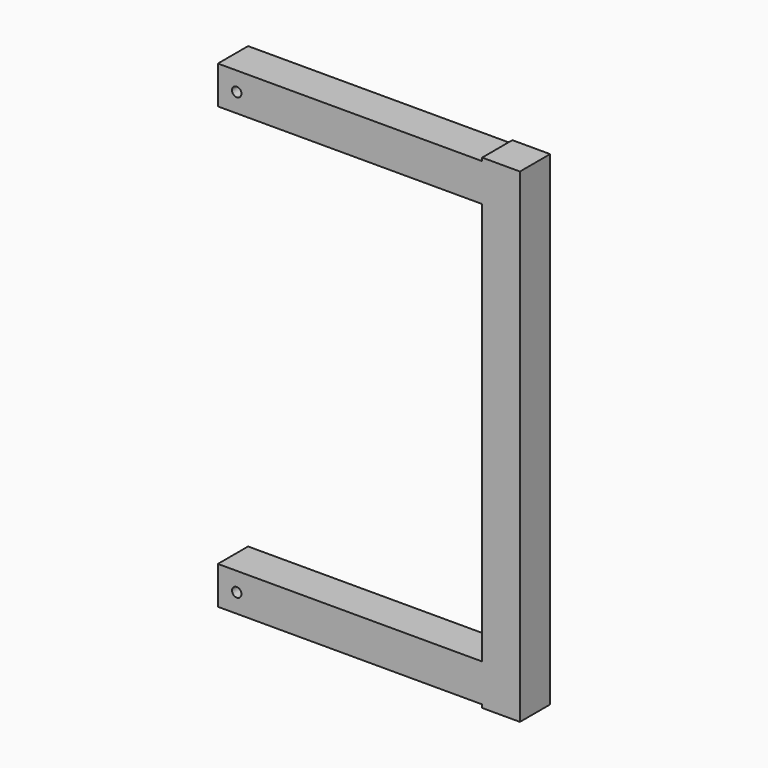
from build123d import *

# Parameters (mm, degrees)
F0_W      = 457.2
F0_H      = 76.2
F1_DEPTH  = 76.2
F2_DEPTH  = 152.4
F3_W      = 76.2
F3_H      = 76.2
F4_DEPTH  = 895.35
F5_W      = 76.2
F5_H      = 76.2
F12_DEPTH = 6.35
F6_W      = 76.2
F6_H      = 76.2
F7_DEPTH  = 533.4
F9_DEPTH  = 76.2
F11_DEPTH = 76.2


with BuildPart() as f1:
    # F0 (on Top) → F1 (new body)
    with BuildSketch(Plane.XY):
        with Locations((4.4659457539, 3.0175000429)):
            Rectangle(F0_W, F0_H)
    extrude(amount=F1_DEPTH)

    # F2 (add): a face of the model
    f2_faces = [f1.faces().sort_by_distance(p)[0] for p in [
        (233.0659457539, 3.0175000429, 38.1),
    ]]
    extrude(f2_faces, amount=F2_DEPTH)

    # F3 (on face) → F4 (join)
    with BuildSketch(Plane.XY.offset(76.2)):
        with Locations((347.3659457539, 3.0175000429)):
            Rectangle(F3_W, F3_H)
    extrude(amount=F4_DEPTH)

    # F5 (on face) → F12 (join)
    with BuildSketch(Plane(origin=(0, 0, 0), x_dir=(1, 0, 0), z_dir=(0, 0, -1))):
        with Locations((347.3659457539, -3.0175000429)):
            Rectangle(F5_W, F5_H)
    extrude(amount=F12_DEPTH)

    # F6 (on face) → F7 (join)
    with BuildSketch(Plane(origin=(309.2659457539, 0, 0), x_dir=(0, -1, 0), z_dir=(-1, 0, 0))):
        with Locations((-3.0175000429, 927.1)):
            Rectangle(F6_W, F6_H)
    extrude(amount=F7_DEPTH)

    # F8 (on face) → F9 (cut)
    with BuildSketch(Plane.XZ.offset(35.0824999571)):
        with BuildLine():
            ThreePointArc((-195.5590542461, 927.1), (-186.0340542461, 917.575), (-176.5090542461, 927.1))
            ThreePointArc((-176.5090542461, 927.1), (-186.0340542461, 936.625), (-195.5590542461, 927.1))
        make_face()
    extrude(amount=-F9_DEPTH, mode=Mode.SUBTRACT)

    # F10 (on face) → F11 (cut)
    with BuildSketch(Plane.XZ.offset(35.0824999571)):
        with BuildLine():
            ThreePointArc((-176.5090542461, 38.1), (-186.0340542461, 47.625), (-195.5590542461, 38.1))
            ThreePointArc((-195.5590542461, 38.1), (-186.0340542461, 28.575), (-176.5090542461, 38.1))
        make_face()
    extrude(amount=-F11_DEPTH, mode=Mode.SUBTRACT)


solid = f1.part
